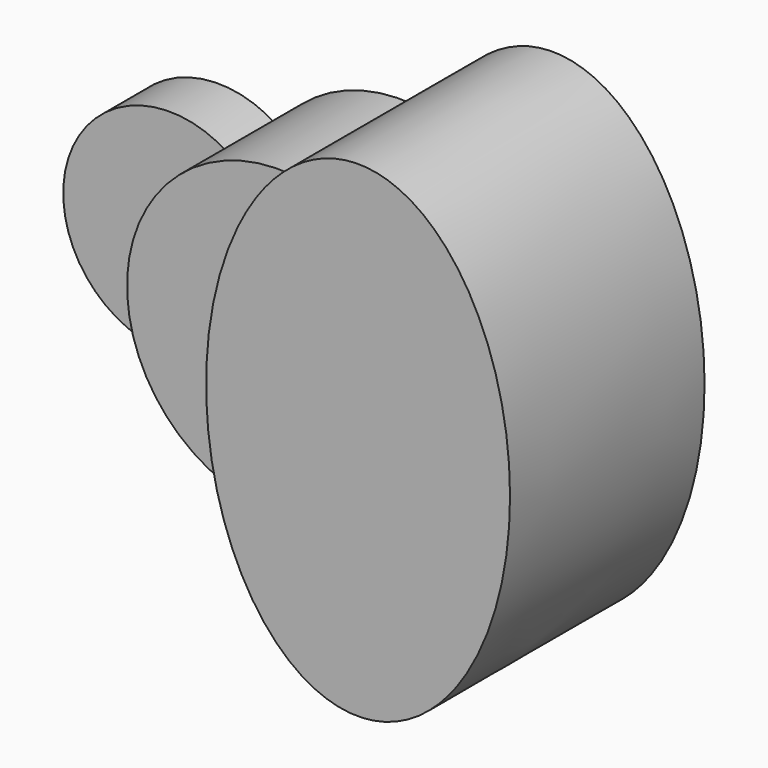
from build123d import *

# Parameters (mm, degrees)
F1_DEPTH = 25.4
F2_DEPTH = 63.5
F3_DEPTH = 101.6


with BuildPart() as f1:
    # F0 (on Front) → F1 (new body)
    with BuildSketch(Plane.XZ):
        with BuildLine():
            ThreePointArc((-51.59375, -37.0180356169), (-60.4501990278, -19.4428248333), (-63.5, 0))
            ThreePointArc((-63.5, 0), (-60.4501990278, 19.4428248333), (-51.59375, 37.0180356169))
            ThreePointArc((-51.59375, 37.0180356169), (-120.65, 0), (-51.59375, -37.0180356169))
        make_face()
    extrude(amount=F1_DEPTH)


with BuildPart() as f2:
    # F0 (on Front) → F2 (new body)
    with BuildSketch(Plane.XZ):
        with BuildLine():
            Line((-31.75, 0), (0, 0))
            add(Edge.make_bspline(
                [(13.2439655959, 62.1035214404), (0, 34.6669399309), (0, 0)],
                knots=[4.0547434617, 4.0547434617, 4.0547434617, 4.7123889804, 4.7123889804, 4.7123889804], degree=2, weights=[1, 0.9464231645, 1]))
            ThreePointArc((13.2439655959, 62.1035214404), (-22.9128106244, 59.2220660674), (-51.59375, 37.0180356169))
            ThreePointArc((-51.59375, 37.0180356169), (-37.0237934934, 21.0006510316), (-31.75, 0))
        make_face()
        with BuildLine():
            Line((-63.5, 0), (-31.75, 0))
            ThreePointArc((-31.75, 0), (-37.0237934934, 21.0006510316), (-51.59375, 37.0180356169))
            ThreePointArc((-51.59375, 37.0180356169), (-60.4501990278, 19.4428248333), (-63.5, 0))
        make_face()
        with BuildLine():
            add(Edge.make_bspline(
                [(0, 0), (0, -34.6669399309), (13.2439655959, -62.1035214404)],
                knots=[4.7123889804, 4.7123889804, 4.7123889804, 5.370034499, 5.370034499, 5.370034499], degree=2, weights=[1, 0.9464231645, 1]))
            Line((0, 0), (-31.75, 0))
            ThreePointArc((-31.75, 0), (-37.0237934934, -21.0006510316), (-51.59375, -37.0180356169))
            ThreePointArc((-51.59375, -37.0180356169), (-22.9128106244, -59.2220660674), (13.2439655959, -62.1035214404))
        make_face()
        with BuildLine():
            add(Edge.make_bspline(
                [(13.2439655959, 62.1035214404), (0, 34.6669399309), (0, 0)],
                knots=[4.0547434617, 4.0547434617, 4.0547434617, 4.7123889804, 4.7123889804, 4.7123889804], degree=2, weights=[1, 0.9464231645, 1]))
            add(Edge.make_bspline(
                [(0, 0), (0, -34.6669399309), (13.2439655959, -62.1035214404)],
                knots=[4.7123889804, 4.7123889804, 4.7123889804, 5.370034499, 5.370034499, 5.370034499], degree=2, weights=[1, 0.9464231645, 1]))
            ThreePointArc((13.2439655959, -62.1035214404), (49.3621404284, -39.9453262889), (63.5, 0))
            ThreePointArc((63.5, 0), (49.3621404284, 39.9453262889), (13.2439655959, 62.1035214404))
        make_face()
        with BuildLine():
            ThreePointArc((-51.59375, -37.0180356169), (-37.0237934934, -21.0006510316), (-31.75, 0))
            Line((-31.75, 0), (-63.5, 0))
            ThreePointArc((-63.5, 0), (-60.4501990278, -19.4428248333), (-51.59375, -37.0180356169))
        make_face()
    extrude(amount=F2_DEPTH)


with BuildPart() as f3:
    # F0 (on Front) → F3 (new body)
    with BuildSketch(Plane.XZ):
        with BuildLine():
            add(Edge.make_bspline(
                [(63.5, 101.6), (32.3093875408, 101.6), (13.2439655959, 62.1035214404)],
                knots=[3.1415926536, 3.1415926536, 3.1415926536, 4.0547434617, 4.0547434617, 4.0547434617], degree=2, weights=[1, 0.8975675831, 1]))
            ThreePointArc((13.2439655959, 62.1035214404), (49.3621404284, 39.9453262889), (63.5, 0))
            Line((63.5, 0), (63.5, 101.6))
        make_face()
        with BuildLine():
            add(Edge.make_bspline(
                [(13.2439655959, 62.1035214404), (0, 34.6669399309), (0, 0)],
                knots=[4.0547434617, 4.0547434617, 4.0547434617, 4.7123889804, 4.7123889804, 4.7123889804], degree=2, weights=[1, 0.9464231645, 1]))
            add(Edge.make_bspline(
                [(0, 0), (0, -34.6669399309), (13.2439655959, -62.1035214404)],
                knots=[4.7123889804, 4.7123889804, 4.7123889804, 5.370034499, 5.370034499, 5.370034499], degree=2, weights=[1, 0.9464231645, 1]))
            ThreePointArc((13.2439655959, -62.1035214404), (49.3621404284, -39.9453262889), (63.5, 0))
            ThreePointArc((63.5, 0), (49.3621404284, 39.9453262889), (13.2439655959, 62.1035214404))
        make_face()
        with BuildLine():
            ThreePointArc((63.5, 0), (49.3621404284, -39.9453262889), (13.2439655959, -62.1035214404))
            add(Edge.make_bspline(
                [(13.2439655959, -62.1035214404), (75.5537087854, -191.1861844445), (120.4955415237, -44.7930922222), (165.437374262, 101.6), (63.5, 101.6)],
                knots=[5.370034499, 5.370034499, 5.370034499, 7.3974062299, 7.3974062299, 9.4247779608, 9.4247779608, 9.4247779608], degree=2, weights=[1, 0.5287358074, 1, 0.5287358074, 1]))
            Line((63.5, 101.6), (63.5, 0))
        make_face()
    extrude(amount=F3_DEPTH)


solid = Compound([f1.part, f2.part, f3.part])
